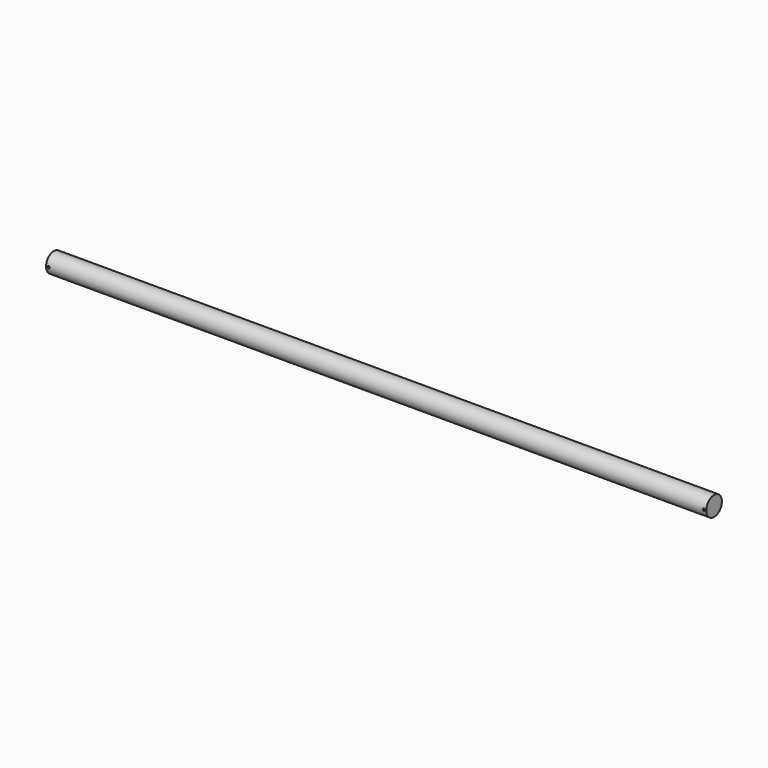
from build123d import *

# Parameters (mm, degrees)
F0_R          = 12.5
F1_DEPTH      = 422.5
F2_R          = 1.5
F3_DEPTH      = 12.501
F3_DEPTH_BACK = 12.501


with BuildPart() as f1:
    # F0 (on Right) → F1 (new body, symmetric)
    with BuildSketch(Plane.YZ):
        Circle(F0_R)
    extrude(amount=F1_DEPTH, both=True)

    # F2 (on Front) → F3 (cut, two sides)
    with BuildSketch(Plane.XZ) as f3_sk:
        with Locations((-419.5, 0)):
            Circle(F2_R)
        with Locations((419.5, 0)):
            Circle(F2_R)
    extrude(amount=-F3_DEPTH, mode=Mode.SUBTRACT)
    extrude(f3_sk.sketch, amount=F3_DEPTH_BACK, mode=Mode.SUBTRACT)


solid = f1.part
